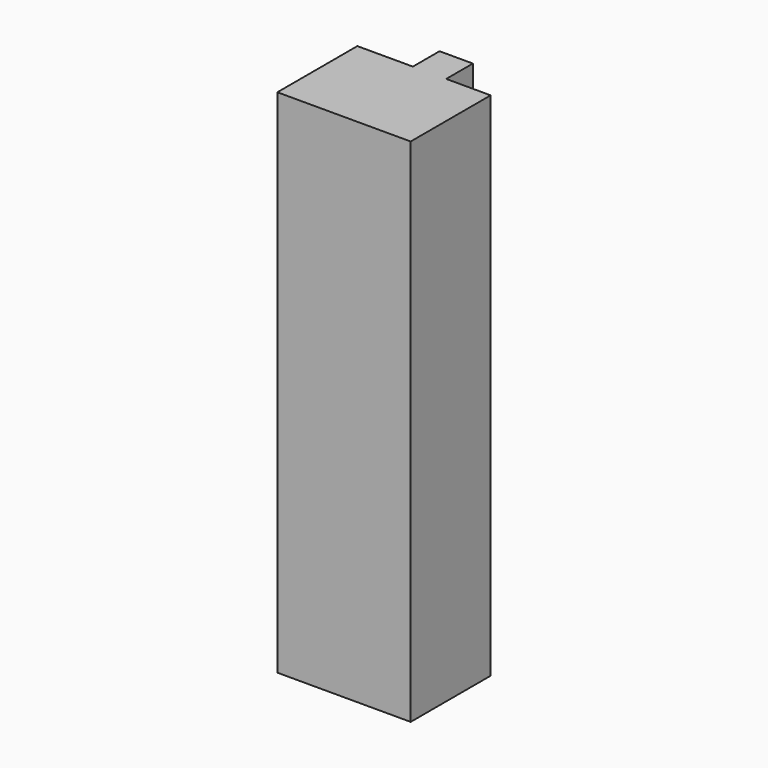
from build123d import *

# Parameters (mm, degrees)
F1_DEPTH = 571.5
F2_DEPTH = 25.4
F3_DEPTH = 571.5
F4_DEPTH = 25.4


with BuildPart() as f1:
    # F0 (on Top) → F1 (new body, symmetric)
    with BuildSketch(Plane.XY):
        Polygon((-50.8, 0), (0, 0), (0, 76.2), (-76.2, 76.2), (-76.2, 0), align=None)
    extrude(amount=F1_DEPTH, both=True)

    # F0 (on Top) → F2 (join)
    with BuildSketch(Plane.XY):
        Polygon((-177.8, 0), (-76.2, 0), (-76.2, 76.2), align=None)
        Polygon((0, 76.2), (0, 0), (101.6, 0), align=None)
    extrude(amount=F2_DEPTH)

    # F0 (on Top) → F3 (join, symmetric)
    with BuildSketch(Plane.XY):
        Polygon((-76.2, -228.6), (-76.2, 0), (-177.8, 0), (-203.2, 0), (-203.2, -228.6), align=None)
        Polygon((101.6, 0), (0, 0), (-50.8, 0), (-76.2, 0), (-76.2, -228.6), (101.6, -228.6), align=None)
    extrude(amount=F3_DEPTH, both=True)

    # F3_face (on face) → F4 (join)
    with BuildSketch(Plane(origin=(-49.823077, -102.576923, 571.5), x_dir=(1, 0, 0), z_dir=(0, 0, 1))):
        Polygon((-153.376923, 102.576923), (-153.376923, -126.023077), (151.423077, -126.023077), (151.423077, 102.576923), (49.823077, 102.576923), (49.823077, 178.776923), (-26.376923, 178.776923), (-26.376923, 102.576923), align=None)
    extrude(amount=F4_DEPTH)


solid = f1.part
